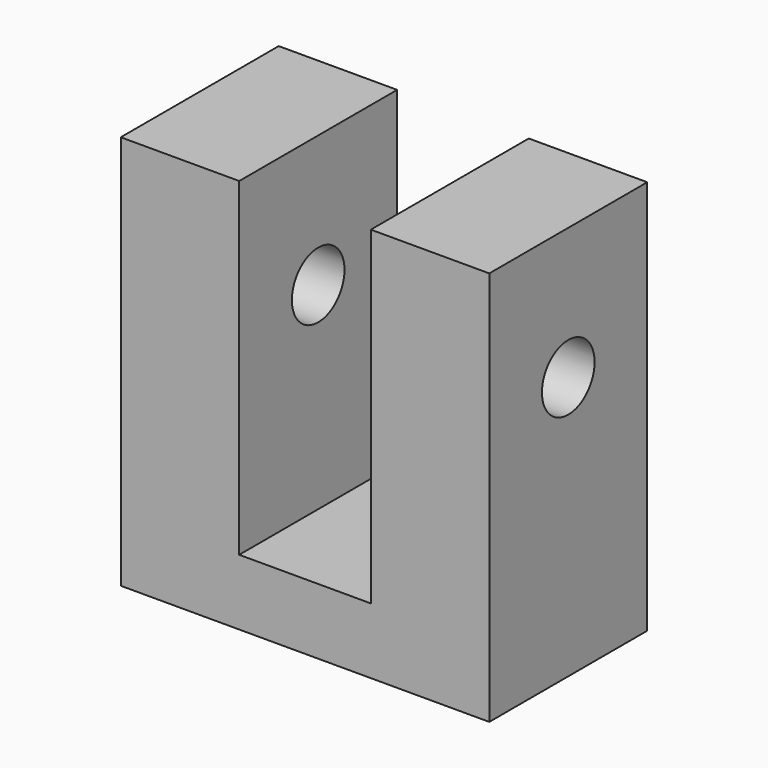
from build123d import *

# Parameters (mm, degrees)
F1_DEPTH = 19.05
F2_R     = 3.175
F3_DEPTH = 12.7
F4_R     = 3.175
F5_DEPTH = 76.2


with BuildPart() as f1:
    # F0 (on Front) → F1 (new body)
    with BuildSketch(Plane.XZ):
        Polygon((0, 38.1), (0, 0), (35.56, 0), (35.56, 38.1), (24.13, 38.1), (24.13, 6.35), (11.43, 6.35), (11.43, 38.1), align=None)
    extrude(amount=-F1_DEPTH)

    # F2 (on face) → F3 (cut)
    with BuildSketch(Plane(origin=(0, 0, 0), x_dir=(1, 0, 0), z_dir=(0, 0, -1))):
        with Locations((4.7752, -6.35)):
            Circle(F2_R)
        with Locations((30.7848, -6.35)):
            Circle(F2_R)
    extrude(amount=-F3_DEPTH, mode=Mode.SUBTRACT)

    # F4 (on face) → F5 (cut)
    with BuildSketch(Plane.YZ.offset(35.56)):
        with Locations((9.525, 25.4)):
            Circle(F4_R)
    extrude(amount=-F5_DEPTH, mode=Mode.SUBTRACT)


solid = f1.part
